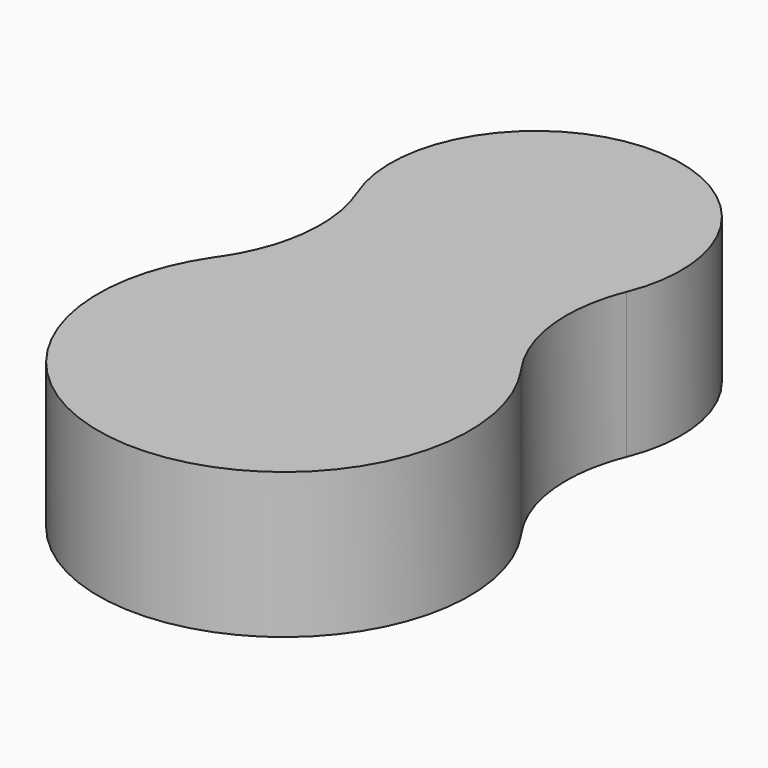
from build123d import *

# Parameters (mm, degrees)
F1_DEPTH = 45
F2_R     = 50


with BuildPart() as f1:
    # F0 (on Top) → F1 (new body)
    with BuildSketch(Plane.XY):
        with BuildLine():
            ThreePointArc((46.333077, -8.448628), (38.300824, 10.899277), (38.586336, 31.846281))
            ThreePointArc((38.586336, 31.846281), (0, 100), (-38.586336, 31.846281))
            ThreePointArc((-38.586336, 31.846281), (-38.300824, 10.899277), (-46.333077, -8.448628))
            ThreePointArc((-46.333077, -8.448628), (-46.903745, -9.270861), (-47.490188, -10.081917))
            ThreePointArc((-47.490188, -10.081917), (0, -100), (47.490188, -10.081917))
            ThreePointArc((47.490188, -10.081917), (46.903745, -9.270861), (46.333077, -8.448628))
        make_face()
        with BuildLine():
            ThreePointArc((47.490188, -10.081917), (46.91874, -9.260237), (46.333077, -8.448628))
            ThreePointArc((46.333077, -8.448628), (46.903745, -9.270861), (47.490188, -10.081917))
        make_face()
        with BuildLine():
            ThreePointArc((-47.490188, -10.081917), (-46.903745, -9.270861), (-46.333077, -8.448628))
            ThreePointArc((-46.333077, -8.448628), (-46.91874, -9.260237), (-47.490188, -10.081917))
        make_face()
    extrude(amount=F1_DEPTH)

    # F2
    f2_edges = [f1.edges().sort_by_distance(p)[0] for p in [
        (-38.586336, 31.846281, 22.5),
        (38.586336, 31.846281, 22.5),
    ]]
    fillet(f2_edges, radius=F2_R)


solid = f1.part
